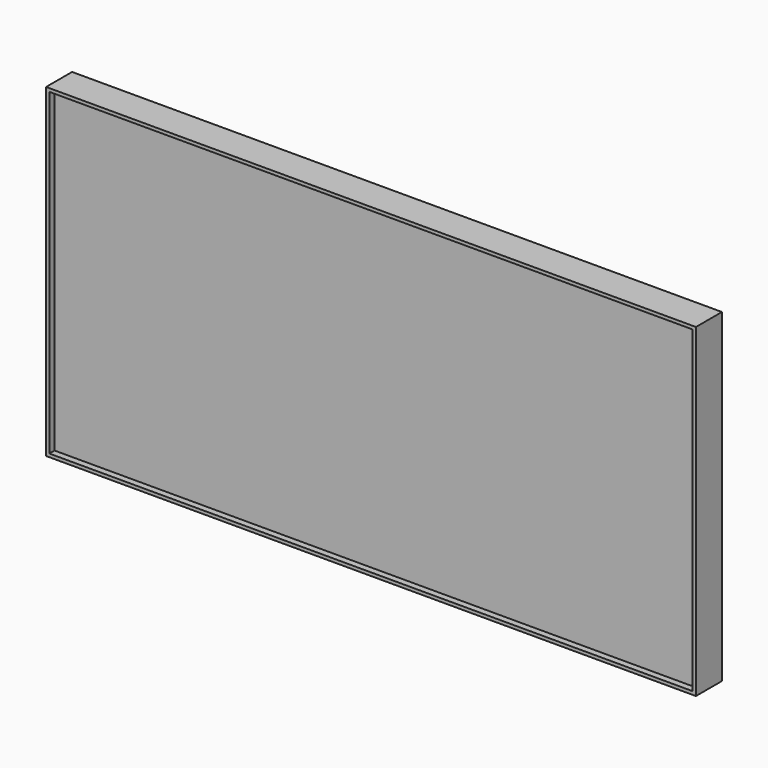
from build123d import *

# Parameters (mm, degrees)
F0_W     = 200
F0_H     = 100
F1_DEPTH = 10
F2_W     = 198
F2_H     = 98
F3_DEPTH = 2
F4_W     = 50
F4_H     = 40
F5_DEPTH = 10
F6_R     = 5
F7_DEPTH = 5


with BuildPart() as f1:
    # F0 (on Front) → F1 (new body)
    with BuildSketch(Plane.XZ):
        with Locations((0, -12.41183)):
            Rectangle(F0_W, F0_H)
    extrude(amount=F1_DEPTH)

    # F2 (on face) → F3 (cut)
    with BuildSketch(Plane.XZ.offset(10)):
        with Locations((0, -12.41183)):
            Rectangle(F2_W, F2_H)
    extrude(amount=-F3_DEPTH, mode=Mode.SUBTRACT)

    # F4 (on face) → F5 (join)
    with BuildSketch(Plane(origin=(0, 0, 0), x_dir=(-1, 0, 0), z_dir=(0, 1, 0))):
        with Locations((-0.960992, -7.41183)):
            Rectangle(F4_W, F4_H)
    extrude(amount=F5_DEPTH)

    # F6 (on face) → F7 (join)
    with BuildSketch(Plane(origin=(0, 10, 0), x_dir=(-1, 0, 0), z_dir=(0, 1, 0))):
        Circle(F6_R)
    extrude(amount=F7_DEPTH)


solid = f1.part
